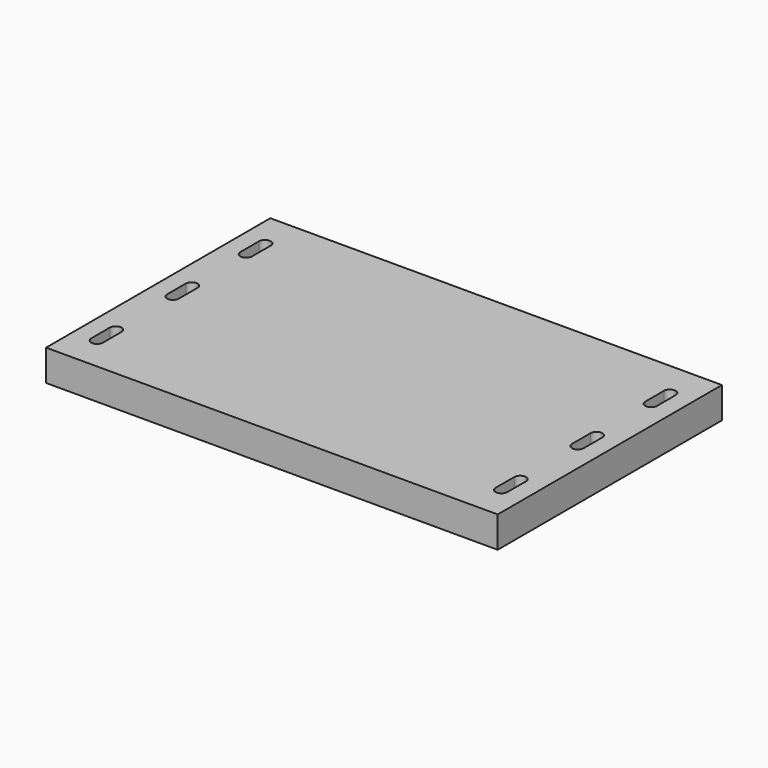
from build123d import *

# Parameters (mm, degrees)
F0_W     = 368.3
F0_H     = 228.6
F1_DEPTH = 25.4


with BuildPart() as f1:
    # F0 (on Top) → F1 (new body)
    with BuildSketch(Plane.XY):
        with Locations((-50.889903, -0.749248)):
            Rectangle(F0_W, F0_H)
        with BuildLine():
            ThreePointArc((-220.640857, -68.102129), (-215.890184, -63.31264), (-211.100696, -68.063313))
            Line((-211.100696, -68.063313), (-211.023187, -87.113155))
            ThreePointArc((-211.023187, -87.113155), (-215.77386, -91.902644), (-220.563349, -87.151971))
            Line((-220.563349, -87.151971), (-220.640857, -68.102129))
        make_face(mode=Mode.SUBTRACT)
        with BuildLine():
            Line((118.861051, -68.102129), (118.783543, -87.151971))
            ThreePointArc((118.783543, -87.151971), (113.994055, -91.902644), (109.243382, -87.113155))
            Line((109.243382, -87.113155), (109.32089, -68.063313))
            ThreePointArc((109.32089, -68.063313), (114.110379, -63.31264), (118.861051, -68.102129))
        make_face(mode=Mode.SUBTRACT)
        with BuildLine():
            Line((-220.760023, -9.525), (-220.760023, 9.525))
            ThreePointArc((-220.760023, 9.525), (-215.989903, 14.29512), (-211.219783, 9.525))
            Line((-211.219783, 9.525), (-211.219783, -9.525))
            ThreePointArc((-211.219783, -9.525), (-215.989903, -14.29512), (-220.760023, -9.525))
        make_face(mode=Mode.SUBTRACT)
        with BuildLine():
            ThreePointArc((-219.024113, 61.495795), (-220.304273, 63.141743), (-220.760023, 65.176503))
            Line((-220.760023, 65.176503), (-220.760023, 84.226503))
            ThreePointArc((-220.760023, 84.226503), (-215.989903, 88.996623), (-211.219783, 84.226503))
            Line((-211.219783, 84.226503), (-211.219783, 65.176503))
            ThreePointArc((-211.219783, 65.176503), (-213.955142, 60.862132), (-219.024113, 61.495795))
        make_face(mode=Mode.SUBTRACT)
        with BuildLine():
            ThreePointArc((109.439977, 9.525), (114.210097, 14.29512), (118.980217, 9.525))
            Line((118.980217, 9.525), (118.980217, -9.525))
            ThreePointArc((118.980217, -9.525), (114.210097, -14.29512), (109.439977, -9.525))
            Line((109.439977, -9.525), (109.439977, 9.525))
        make_face(mode=Mode.SUBTRACT)
        with BuildLine():
            Line((109.439977, 65.176503), (109.439977, 84.226503))
            ThreePointArc((109.439977, 84.226503), (114.210097, 88.996623), (118.980217, 84.226503))
            Line((118.980217, 84.226503), (118.980217, 65.176503))
            ThreePointArc((118.980217, 65.176503), (118.524468, 63.141743), (117.244307, 61.495795))
            ThreePointArc((117.244307, 61.495795), (112.175337, 60.862132), (109.439977, 65.176503))
        make_face(mode=Mode.SUBTRACT)
    extrude(amount=F1_DEPTH)


solid = f1.part
